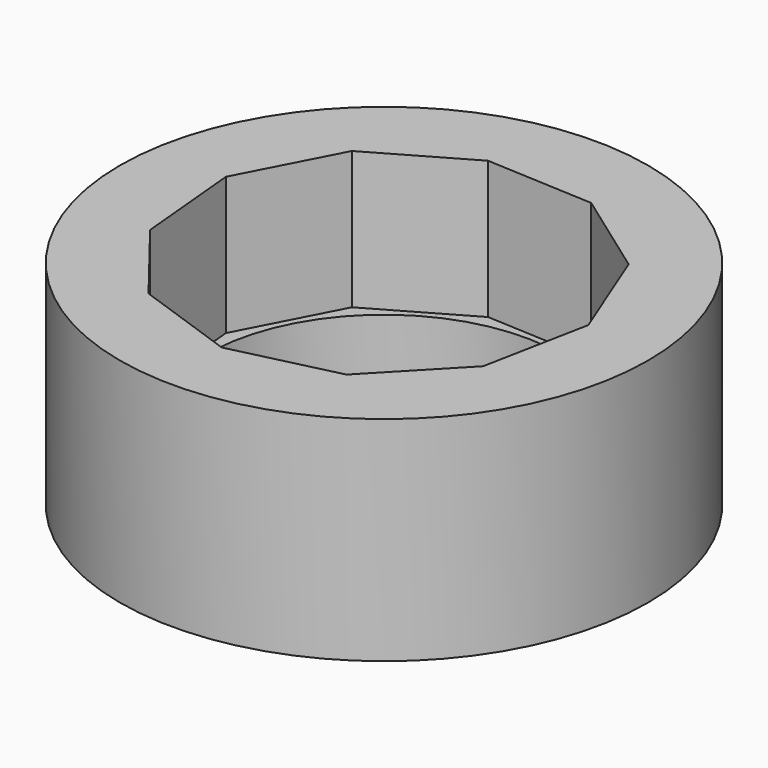
from build123d import *

# Parameters (mm, degrees)
F0_R     = 39.9777863274
F1_DEPTH = 53.594
F3_DEPTH = 24.638
F4_DEPTH = 66.802
F5_R     = 26.7697870731
F6_DEPTH = 37.592
F7_DEPTH = 21.336


with BuildPart() as f1:
    # F0 (on Top) → F1 (new body)
    with BuildSketch(Plane.XY):
        Circle(F0_R)
    extrude(amount=F1_DEPTH)

    # F2 (on face) → F3 (join)
    with BuildSketch(Plane.XY.offset(53.594)):
        Polygon((-1.4570151686, -28.8758932938), (14.3857673972, -25.0796691189), (25.6611704593, -13.3208272032), (28.7893332138, 2.6672832291), (22.7770860886, 17.8085500823), (9.5332750655, 27.2957281135), (-6.7372834321, 28.1167053311), (-20.8688020433, 20.0108272692), (-28.3746234576, 5.5516529391), (-26.8717024097, -10.6701319731), (-16.8372057131, -23.5042253753), align=None)
    extrude(amount=F3_DEPTH)

    # F4 (cut): a face of the model
    f4_faces = [f1.faces().sort_by_distance(p)[0] for p in [
        (0, 0, 78.232),
    ]]
    extrude(f4_faces, amount=-F4_DEPTH, mode=Mode.SUBTRACT)

    # F5 (on face) → F6 (cut)
    with BuildSketch(Plane(origin=(0, 0, 0), x_dir=(1, 0, 0), z_dir=(0, 0, -1))):
        Circle(F5_R)
    extrude(amount=-F6_DEPTH, mode=Mode.SUBTRACT)

    # F7 (cut): a face of the model
    f7_faces = [f1.faces().sort_by_distance(p)[0] for p in [
        (-38.8470437751, 0, 53.594),
    ]]
    extrude(f7_faces, amount=-F7_DEPTH, mode=Mode.SUBTRACT)


solid = f1.part
